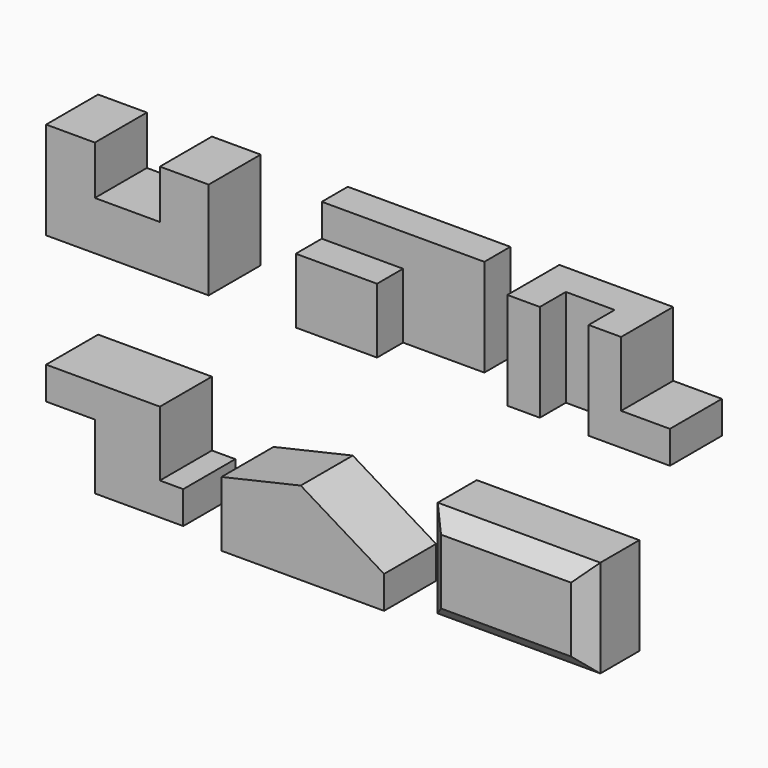
from build123d import *

# Parameters (mm, degrees)
F1_DEPTH  = 101.6
F2_W      = 254
F2_H      = 152.4
F3_DEPTH  = 101.6
F5_DEPTH  = 50.8
F7_DEPTH  = 101.6
F8_W      = 76.2
F8_H      = 50.8
F9_DEPTH  = 152.4
F11_DEPTH = 101.6
F13_DEPTH = 101.6
F14_W     = 254
F14_H     = 152.4
F15_DEPTH = 101.6
F16_SIZE  = 25.4
F17_DEPTH = 25.4
F18_DEPTH = 74.676


with BuildPart() as f1:
    # F0 (on Front) → F1 (new body)
    with BuildSketch(Plane.XZ):
        Polygon((0, 152.4), (0, 0), (254, 0), (254, 152.4), (177.8, 152.4), (177.8, 76.2), (76.2, 76.2), (76.2, 152.4), align=None)
    extrude(amount=-F1_DEPTH)



with BuildPart() as f3:
    # F2 (on Front) → F3 (new body)
    with BuildSketch(Plane.XZ):
        with Locations((517.0868965597, 76.2)):
            Rectangle(F2_W, F2_H)
    extrude(amount=-F3_DEPTH)

    # F4 (on face) → F5 (cut)
    with BuildSketch(Plane.XZ):
        Polygon((644.0868965597, 152.4), (390.0868965597, 152.4), (390.0868965597, 101.6), (517.0868965597, 101.6), (517.0868965597, 0), (644.0868965597, 0), align=None)
    extrude(amount=-F5_DEPTH, mode=Mode.SUBTRACT)


with BuildPart() as f7:
    # F6 (on Front) → F7 (new body)
    with BuildSketch(Plane.XZ):
        Polygon((720.6364183982, 152.4), (720.6364183982, 0), (974.6364183982, 0), (974.6364183982, 50.8), (898.4364183982, 50.8), (898.4364183982, 152.4), align=None)
    extrude(amount=-F7_DEPTH)

    # F8 (on face) → F9 (cut)
    with BuildSketch(Plane.XY.offset(152.4)):
        with Locations((809.5364183982, 25.4)):
            Rectangle(F8_W, F8_H)
    extrude(amount=-F9_DEPTH, mode=Mode.SUBTRACT)


with BuildPart() as f11:
    # F10 (on Front) → F11 (new body)
    with BuildSketch(Plane.XZ):
        Polygon((177.8, -177.8), (0, -177.8), (0, -228.6), (76.2, -228.6), (76.2, -330.2), (214.3024325587, -330.2), (214.3024325587, -279.4), (177.8, -279.4), align=None)
    extrude(amount=-F11_DEPTH)


with BuildPart() as f13:
    # F12 (on Front) → F13 (new body)
    with BuildSketch(Plane.XZ):
        Polygon((274.0688374149, -243.1599593614), (274.0688374149, -344.7599593614), (528.0688374149, -344.7599593614), (528.0688374149, -293.9599593614), (397.8559698996, -214.774296938), align=None)
    extrude(amount=-F13_DEPTH)


with BuildPart() as f15:
    # F14 (on Front) → F15 (new body)
    with BuildSketch(Plane.XZ):
        with Locations((718.6061441898, -261.7572938768)):
            Rectangle(F14_W, F14_H)
    extrude(amount=-F15_DEPTH)

    # F16
    f16_edges = [f15.edges().sort_by_distance(p)[0] for p in [
        (591.606144, 0, -261.757294),
        (718.606144, 0, -337.957294),
        (845.606144, 0, -261.757294),
        (718.606144, 0, -185.557294),
    ]]
    chamfer(f16_edges, length=F16_SIZE)


with BuildPart() as f17:
    # F0 (on Front) → F17 (new body)
    with BuildSketch(Plane.XZ):
        Polygon((0, 152.4), (0, 0), (254, 0), (254, 152.4), (177.8, 152.4), (177.8, 76.2), (76.2, 76.2), (76.2, 152.4), align=None)
    extrude(amount=-F17_DEPTH)


with BuildPart() as f1_1:
    add(f1.part)

    add(f17.part)  # F18 merges F17
    # F0 (on Front) → F18 (join)
    with BuildSketch(Plane.XZ):
        Polygon((0, 152.4), (0, 0), (254, 0), (254, 152.4), (177.8, 152.4), (177.8, 76.2), (76.2, 76.2), (76.2, 152.4), align=None)
    extrude(amount=-F18_DEPTH)


solid = Compound([f3.part, f7.part, f11.part, f13.part, f15.part, f1_1.part])
